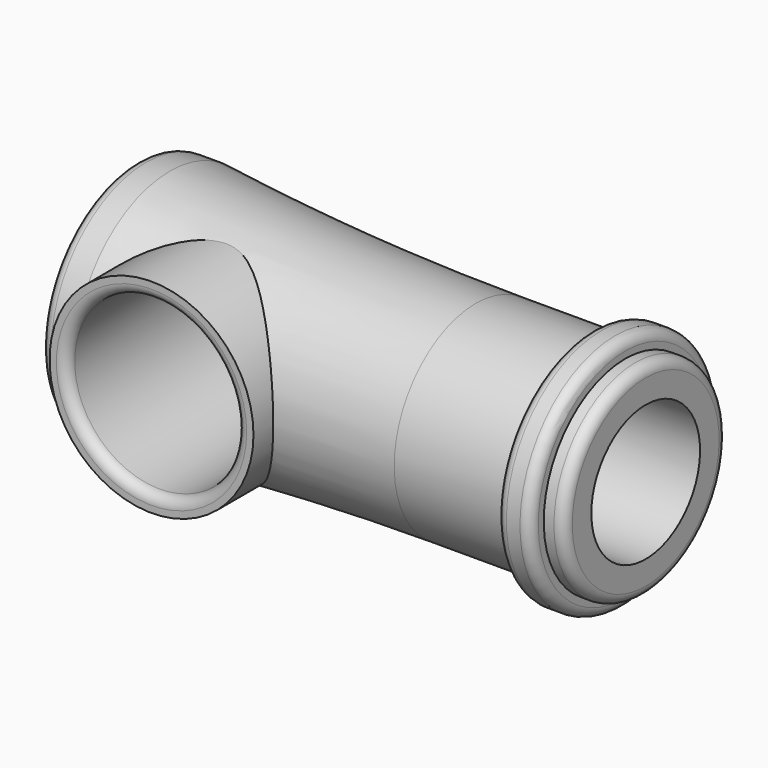
from build123d import *

# Parameters (mm, degrees)
F2_R     = 15
F3_DEPTH = 19
F4_R     = 12.5
F5_DEPTH = 25
F6_R     = 1.5


with BuildPart() as f1:
    # F0 (on Front) → F1 (revolve)
    with BuildSketch(Plane.XZ):
        with BuildLine():
            Line((0, 17.5), (0, 0))
            Line((0, 0), (60, 0))
            Line((60, 0), (60, 10))
            Line((60, 10), (75, 10))
            Line((75, 10), (75, 15))
            Line((75, 15), (72, 15))
            Line((72, 15), (72, 17.5))
            Line((72, 17.5), (67, 17.5))
            Line((67, 17.5), (67, 15))
            Line((67, 15), (50, 15))
            ThreePointArc((50, 15), (27.465305, 15.625482), (5, 17.5))
            Line((5, 17.5), (0, 17.5))
        make_face()
    revolve(axis=Axis((30, 0, 0), (1, 0, 0)))

    # F2 (on Front) → F3 (join)
    with BuildSketch(Plane.XZ):
        with Locations((17.5, 0)):
            Circle(F2_R)
    extrude(amount=F3_DEPTH)

    # F4 (on face) → F5 (cut)
    with BuildSketch(Plane.XZ.offset(19)):
        with Locations((17.5, 0)):
            Circle(F4_R)
    extrude(amount=-F5_DEPTH, mode=Mode.SUBTRACT)

    # F6
    f6_edges = [f1.edges().sort_by_distance(p)[0] for p in [
        (0, 0, -17.5),
        (5, -19, 0),
        (75, 0, -15),
        (72, 0, -17.5),
        (67, 0, -17.5),
    ]]
    fillet(f6_edges, radius=F6_R)


solid = f1.part
